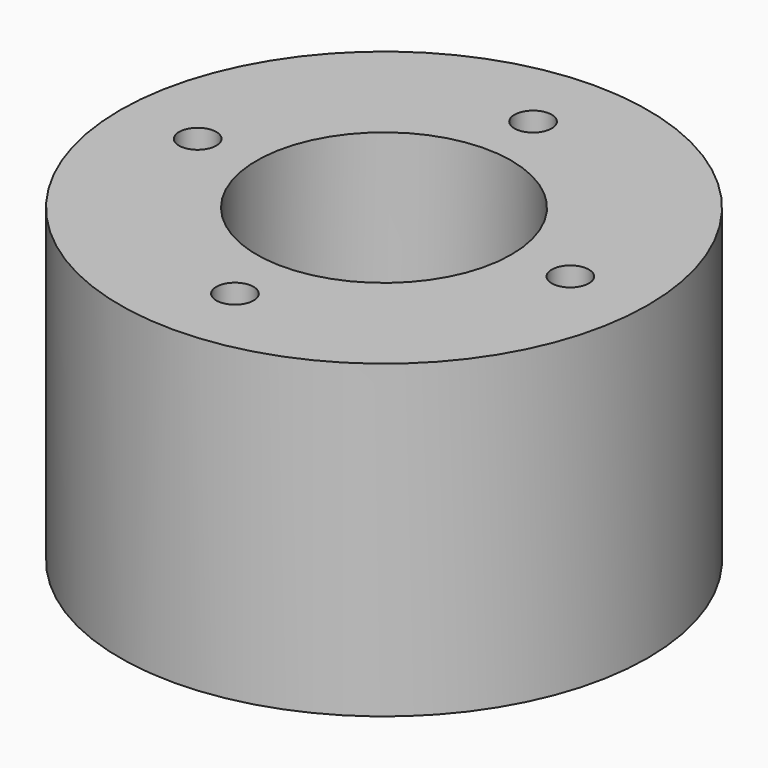
from build123d import *

# Parameters (mm, degrees)
CYLINDER007_R     = 3
CYLINDER007_DEPTH = 5
CYLINDER008_R     = 3
CYLINDER008_DEPTH = 5
CYLINDER009_R     = 3
CYLINDER009_DEPTH = 5
CYLINDER006_R     = 3
CYLINDER006_DEPTH = 5
CYLINDER005_R     = 1.5
CYLINDER005_DEPTH = 25
CYLINDER004_R     = 1.5
CYLINDER004_DEPTH = 25
CYLINDER003_R     = 1.5
CYLINDER003_DEPTH = 25
CYLINDER002_R     = 1.5
CYLINDER002_DEPTH = 25
CYLINDER001_R     = 10.25
CYLINDER001_DEPTH = 25
CYLINDER_R        = 21.25
CYLINDER_DEPTH    = 25


with BuildPart() as zylinder007:
    # Cylinder007 → Cylinder007 (new body)
    with BuildSketch(Plane(origin=(0, 15, 0), x_dir=(1, 0, 0), z_dir=(0, 0, 1))):
        Circle(CYLINDER007_R)
    extrude(amount=CYLINDER007_DEPTH)


with BuildPart() as zylinder008:
    # Cylinder008 → Cylinder008 (new body)
    with BuildSketch(Plane(origin=(-15, 0, 0), x_dir=(1, 0, 0), z_dir=(0, 0, 1))):
        Circle(CYLINDER008_R)
    extrude(amount=CYLINDER008_DEPTH)


with BuildPart() as zylinder009:
    # Cylinder009 → Cylinder009 (new body)
    with BuildSketch(Plane(origin=(0, -15, 0), x_dir=(1, 0, 0), z_dir=(0, 0, 1))):
        Circle(CYLINDER009_R)
    extrude(amount=CYLINDER009_DEPTH)


with BuildPart() as zylinder006:
    # Cylinder006 → Cylinder006 (new body)
    with BuildSketch(Plane(origin=(15, 0, 0), x_dir=(1, 0, 0), z_dir=(0, 0, 1))):
        Circle(CYLINDER006_R)
    extrude(amount=CYLINDER006_DEPTH)


with BuildPart() as zylinder005:
    # Cylinder005 → Cylinder005 (new body)
    with BuildSketch(Plane(origin=(0, -15, 0), x_dir=(1, 0, 0), z_dir=(0, 0, 1))):
        Circle(CYLINDER005_R)
    extrude(amount=CYLINDER005_DEPTH)


with BuildPart() as zylinder004:
    # Cylinder004 → Cylinder004 (new body)
    with BuildSketch(Plane(origin=(-15, 0, 0), x_dir=(1, 0, 0), z_dir=(0, 0, 1))):
        Circle(CYLINDER004_R)
    extrude(amount=CYLINDER004_DEPTH)


with BuildPart() as zylinder003:
    # Cylinder003 → Cylinder003 (new body)
    with BuildSketch(Plane(origin=(0, 15, 0), x_dir=(1, 0, 0), z_dir=(0, 0, 1))):
        Circle(CYLINDER003_R)
    extrude(amount=CYLINDER003_DEPTH)


with BuildPart() as zylinder002:
    # Cylinder002 → Cylinder002 (new body)
    with BuildSketch(Plane(origin=(15, 0, 0), x_dir=(1, 0, 0), z_dir=(0, 0, 1))):
        Circle(CYLINDER002_R)
    extrude(amount=CYLINDER002_DEPTH)


with BuildPart() as zylinder001:
    # Cylinder001 → Cylinder001 (new body)
    with BuildSketch(Plane.XY):
        Circle(CYLINDER001_R)
    extrude(amount=CYLINDER001_DEPTH)


with BuildPart() as cut008:
    # Cylinder → Cylinder (new body)
    with BuildSketch(Plane.XY):
        Circle(CYLINDER_R)
    extrude(amount=CYLINDER_DEPTH)

    # Cut: cut Zylinder001
    add(zylinder001.part, mode=Mode.SUBTRACT)

    # Cut001: cut Zylinder002
    add(zylinder002.part, mode=Mode.SUBTRACT)

    # Cut002: cut Zylinder003
    add(zylinder003.part, mode=Mode.SUBTRACT)

    # Cut003: cut Zylinder004
    add(zylinder004.part, mode=Mode.SUBTRACT)

    # Cut004: cut Zylinder005
    add(zylinder005.part, mode=Mode.SUBTRACT)

    # Cut005: cut Zylinder006
    add(zylinder006.part, mode=Mode.SUBTRACT)

    # Cut006: cut Zylinder009
    add(zylinder009.part, mode=Mode.SUBTRACT)

    # Cut007: cut Zylinder008
    add(zylinder008.part, mode=Mode.SUBTRACT)

    # Cut008: cut Zylinder007
    add(zylinder007.part, mode=Mode.SUBTRACT)


solid = cut008.part
